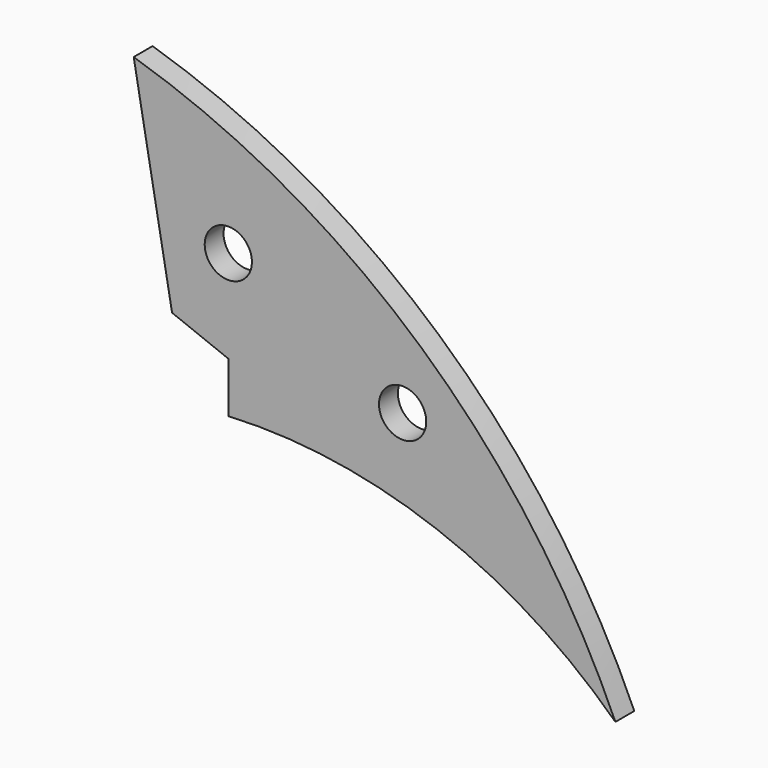
from build123d import *

# Parameters (mm, degrees)
F1_DEPTH = 6.35
F3_D     = 12.7


with BuildPart() as f1:
    # F0 (on Front) → F1 (new body)
    with BuildSketch(Plane.XZ):
        with BuildLine():
            ThreePointArc((-44.801254, 38.533103), (11.221479, 30.034932), (59.270084, 0))
            ThreePointArc((59.270084, 0), (7.026881, 71.685961), (-70.232637, 115.265727))
            Line((-70.232637, 115.265727), (-59.923535, 58.084705))
            Line((-59.923535, 58.084705), (-44.801254, 52.129313))
            Line((-44.801254, 52.129313), (-44.801254, 38.533103))
        make_face()
    extrude(amount=F1_DEPTH)

    # F3 (through all)
    with Locations(Plane.XZ.offset(6.35)):
        with Locations((-44.801254, 77.088386), (2.063817, 54.518287)):
            Hole(F3_D / 2)


solid = f1.part
